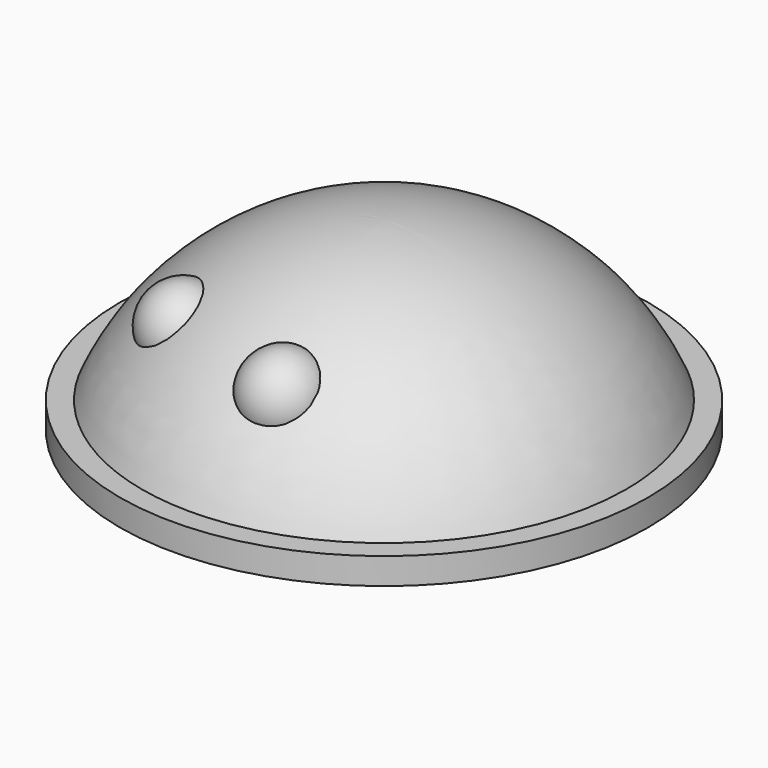
from build123d import *

# Parameters (mm, degrees)
CYLINDER_R     = 10
CYLINDER_DEPTH = 1


with BuildPart() as cilindre:
    # Cylinder → Cylinder (new body)
    with BuildSketch(Plane.XY.offset(3)):
        Circle(CYLINDER_R)
    extrude(amount=CYLINDER_DEPTH)


with BuildPart() as fusion:
    # Sphere → Sphere (revolve)
    with BuildSketch(Plane.XZ):
        with BuildLine():
            ThreePointArc((9.396926, 3.420201), (5.735764, 8.19152), (0, 10))
            Line((0, 10), (0, 3.420201))
            Line((0, 3.420201), (9.396926, 3.420201))
        make_face()
    revolve(axis=Axis((0, 0, 0), (0, 0, 1)))

    # Fusion: union Cilindre
    add(cilindre.part)


with BuildPart() as esfera001:
    # Sphere001 → Sphere001 (revolve)
    with BuildSketch(Plane(origin=(1, -6, 7), x_dir=(1, 0, 0), z_dir=(0, -1, 0))):
        with BuildLine():
            ThreePointArc((0, -1.5), (1.5, 0), (0, 1.5))
            Line((0, 1.5), (0, -1.5))
        make_face()
    revolve(axis=Axis((1, -6, 7), (0, 0, 1)))


with BuildPart() as fusion001:
    # Sphere002 → Sphere002 (revolve)
    with BuildSketch(Plane(origin=(-4, -4.5, 7), x_dir=(1, 0, 0), z_dir=(0, -1, 0))):
        with BuildLine():
            ThreePointArc((0, -1.5), (1.5, 0), (0, 1.5))
            Line((0, 1.5), (0, -1.5))
        make_face()
    revolve(axis=Axis((-4, -4.5, 7), (0, 0, 1)))

    # Fusion001: union Esfera001
    add(esfera001.part)


solid = Compound([fusion.part, fusion001.part])
